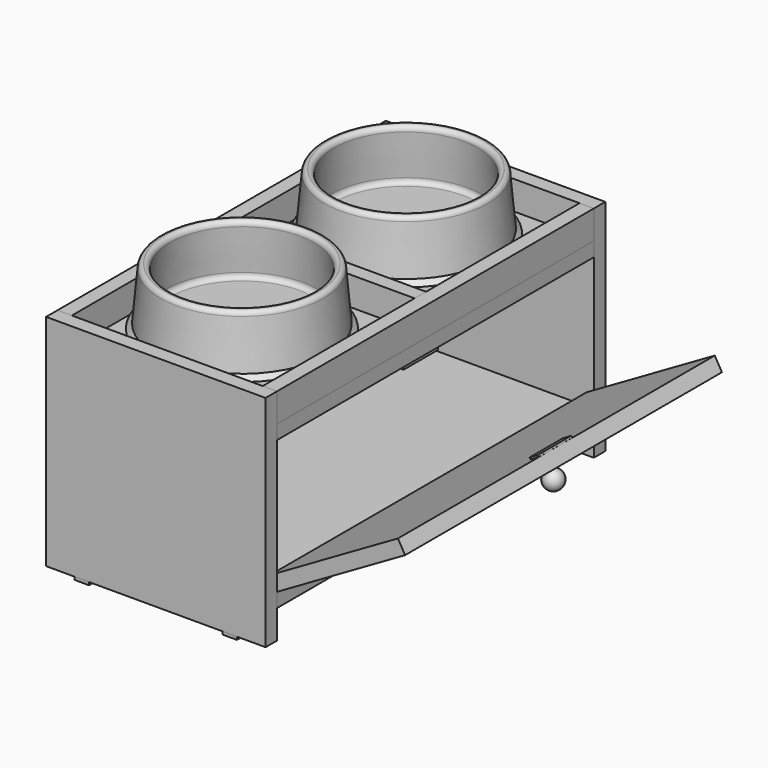
from build123d import *

# Parameters (mm, degrees)
BOX_W              = 230
BOX_H              = 15
BOX_DEPTH          = 230
BOX001_W           = 215
BOX001_H           = 415
BOX001_DEPTH       = 15
BOX002_W           = 230
BOX002_H           = 15
BOX002_DEPTH       = 230
BOX003_W           = 200
BOX003_H           = 15
BOX003_DEPTH       = 30
BOX005_W           = 15
BOX005_H           = 415
BOX005_DEPTH       = 30
BOX006_W           = 15
BOX006_H           = 415
BOX006_DEPTH       = 185
BOX007_W           = 230
BOX007_H           = 415
BOX007_DEPTH       = 15
BOX008_W           = 15
BOX008_H           = 415
BOX008_DEPTH       = 155
BOX008_PITCH_ANGLE = 60
BOX010_W           = 15
BOX010_H           = 45
BOX010_DEPTH       = 15
BOX011_W           = 2
BOX011_H           = 44
BOX011_DEPTH       = 10
BOX011_PITCH_ANGLE = 60
FILLET_R           = 4.9
FILLET002_R        = 4.9
FILLET001_R        = 4.9
FILLET003_R        = 4.9
BOX012_W           = 15
BOX012_H           = 15
BOX012_DEPTH       = 3
BOX013_W           = 15
BOX013_H           = 15
BOX013_DEPTH       = 3
BOX014_W           = 15
BOX014_H           = 15
BOX014_DEPTH       = 3
BOX015_W           = 15
BOX015_H           = 15
BOX015_DEPTH       = 3


with BuildPart() as obj1:
    # Box → Box (new body)
    with BuildSketch(Plane.XY):
        with Locations((115, 7.5)):
            Rectangle(BOX_W, BOX_H)
    extrude(amount=BOX_DEPTH)


with BuildPart() as tamposuperiorhorizontal:
    # Box001 → Box001 (new body)
    with BuildSketch(Plane(origin=(15, 15, 185), x_dir=(1, 0, 0), z_dir=(0, 0, 1))):
        with Locations((107.5, 207.5)):
            Rectangle(BOX001_W, BOX001_H)
    extrude(amount=BOX001_DEPTH)


with BuildPart() as obj2:
    # Box002 → Box002 (new body)
    with BuildSketch(Plane(origin=(0, 430, 0), x_dir=(1, 0, 0), z_dir=(0, 0, 1))):
        with Locations((115, 7.5)):
            Rectangle(BOX002_W, BOX002_H)
    extrude(amount=BOX002_DEPTH)


with BuildPart() as obj3:
    # Box003 → Box003 (new body)
    with BuildSketch(Plane(origin=(15, 214, 200), x_dir=(1, 0, 0), z_dir=(0, 0, 1))):
        with Locations((100, 7.5)):
            Rectangle(BOX003_W, BOX003_H)
    extrude(amount=BOX003_DEPTH)


with BuildPart() as obj4:
    # Box005 → Box005 (new body)
    with BuildSketch(Plane(origin=(215, 15, 200), x_dir=(1, 0, 0), z_dir=(0, 0, 1))):
        with Locations((7.5, 207.5)):
            Rectangle(BOX005_W, BOX005_H)
    extrude(amount=BOX005_DEPTH)


with BuildPart() as obj5:
    # Box006 → Box006 (new body)
    with BuildSketch(Plane(origin=(0, 15, 45), x_dir=(1, 0, 0), z_dir=(0, 0, 1))):
        with Locations((7.5, 207.5)):
            Rectangle(BOX006_W, BOX006_H)
    extrude(amount=BOX006_DEPTH)


with BuildPart() as tampoinferiorhorizontal:
    # Box007 → Box007 (new body)
    with BuildSketch(Plane(origin=(0, 15, 30), x_dir=(1, 0, 0), z_dir=(0, 0, 1))):
        with Locations((115, 207.5)):
            Rectangle(BOX007_W, BOX007_H)
    extrude(amount=BOX007_DEPTH)


with BuildPart() as tampabasculante:
    # Box008 → Box008 (new body)
    with BuildSketch(Plane.XY):
        with Locations((7.5, 207.5)):
            Rectangle(BOX008_W, BOX008_H)
    extrude(amount=BOX008_DEPTH)


with BuildPart() as tampabasculante_1:
    # Box008 pitch: moved
    add(tampabasculante.part.rotate(Axis((0, 0, 0), (0, 1, 0)), BOX008_PITCH_ANGLE))


with BuildPart() as tampabasculante_2:
    # Box008 placement: moved
    add(tampabasculante_1.part.moved(Location((222.5, 15, 58))))


with BuildPart() as obj6:
    # Box010 → Box010 (new body)
    with BuildSketch(Plane(origin=(200, 199.5, 170), x_dir=(1, 0, 0), z_dir=(0, 0, 1))):
        with Locations((7.5, 22.5)):
            Rectangle(BOX010_W, BOX010_H)
    extrude(amount=BOX010_DEPTH)


with BuildPart() as obj7:
    # Box011 → Box011 (new body)
    with BuildSketch(Plane.XY):
        with Locations((1, 22)):
            Rectangle(BOX011_W, BOX011_H)
    extrude(amount=BOX011_DEPTH)


with BuildPart() as obj7_1:
    # Box011 pitch: moved
    add(obj7.part.rotate(Axis((0, 0, 0), (0, 1, 0)), BOX011_PITCH_ANGLE))


with BuildPart() as obj7_2:
    # Box011 placement: moved
    add(obj7_1.part.moved(Location((347, 199.5, 132))))


with BuildPart() as puxador:
    # Sphere → Sphere (revolve)
    with BuildSketch(Plane(origin=(354, 222, 105), x_dir=(1, 0, 0), z_dir=(0, -1, 0))):
        with BuildLine():
            ThreePointArc((0, -10), (10, 0), (0, 10))
            Line((0, 10), (0, -10))
        make_face()
    revolve(axis=Axis((354, 222, 105), (0, 0, 1)))


with BuildPart() as cone002:
    # Cone002 → Cone002 (revolve)
    with BuildSketch(Plane(origin=(114, 114, 405), x_dir=(1, 0, 0), z_dir=(0, -1, 0))):
        Polygon((0, 0), (80, 0), (75, 55), (0, 55), align=None)
    revolve(axis=Axis((114, 114, 405), (0, 0, 1)))


with BuildPart() as fillet_body:
    # Cone001 → Cone001 (revolve)
    with BuildSketch(Plane(origin=(114, 114, 405), x_dir=(1, 0, 0), z_dir=(0, -1, 0))):
        Polygon((0, 0), (90, 0), (85, 55), (0, 55), align=None)
    revolve(axis=Axis((114, 114, 405), (0, 0, 1)))

    # Cut: cut Cone002
    add(cone002.part, mode=Mode.SUBTRACT)

    # Fillet
    fillet_edges = [fillet_body.edges().sort_by_distance(p)[0] for p in [
        (29, 114, 460),
        (39, 114, 460),
    ]]
    fillet(fillet_edges, radius=FILLET_R)


with BuildPart() as obj8:
    # Cone → Cone (revolve)
    with BuildSketch(Plane(origin=(114, 114, 400), x_dir=(1, 0, 0), z_dir=(0, -1, 0))):
        Polygon((0, 0), (95, 0), (90, 5), (0, 5), align=None)
    revolve(axis=Axis((114, 114, 400), (0, 0, 1)))

    # Fusion: union Fillet body
    add(fillet_body.part)


with BuildPart() as obj8_1:
    # Fusion placement: moved
    add(obj8.part.moved(Location((0, 0, -190))))

    # Fillet002
    fillet002_edges = [obj8_1.edges().sort_by_distance(p)[0] for p in [
        (34, 114, 215),
    ]]
    fillet(fillet002_edges, radius=FILLET002_R)


with BuildPart() as cone004:
    # Cone004 → Cone004 (revolve)
    with BuildSketch(Plane(origin=(114, 114, 405), x_dir=(1, 0, 0), z_dir=(0, -1, 0))):
        Polygon((0, 0), (80, 0), (75, 55), (0, 55), align=None)
    revolve(axis=Axis((114, 114, 405), (0, 0, 1)))


with BuildPart() as fillet001:
    # Cone005 → Cone005 (revolve)
    with BuildSketch(Plane(origin=(114, 114, 405), x_dir=(1, 0, 0), z_dir=(0, -1, 0))):
        Polygon((0, 0), (90, 0), (85, 55), (0, 55), align=None)
    revolve(axis=Axis((114, 114, 405), (0, 0, 1)))

    # Cut001: cut Cone004
    add(cone004.part, mode=Mode.SUBTRACT)

    # Fillet001
    fillet001_edges = [fillet001.edges().sort_by_distance(p)[0] for p in [
        (29, 114, 460),
        (39, 114, 460),
    ]]
    fillet(fillet001_edges, radius=FILLET001_R)


with BuildPart() as obj9:
    # Cone003 → Cone003 (revolve)
    with BuildSketch(Plane(origin=(114, 114, 400), x_dir=(1, 0, 0), z_dir=(0, -1, 0))):
        Polygon((0, 0), (95, 0), (90, 5), (0, 5), align=None)
    revolve(axis=Axis((114, 114, 400), (0, 0, 1)))

    # Fusion001: union Fillet001
    add(fillet001.part)


with BuildPart() as obj9_1:
    # Fusion001 placement: moved
    add(obj9.part.moved(Location((0, 215, -190))))

    # Fillet003
    fillet003_edges = [obj9_1.edges().sort_by_distance(p)[0] for p in [
        (34, 329, 215),
    ]]
    fillet(fillet003_edges, radius=FILLET003_R)


with BuildPart() as cube:
    # Box012 → Box012 (new body)
    with BuildSketch(Plane(origin=(30, 0, -3), x_dir=(1, 0, 0), z_dir=(0, 0, 1))):
        with Locations((7.5, 7.5)):
            Rectangle(BOX012_W, BOX012_H)
    extrude(amount=BOX012_DEPTH)


with BuildPart() as cube001:
    # Box013 → Box013 (new body)
    with BuildSketch(Plane(origin=(185, 0, -3), x_dir=(1, 0, 0), z_dir=(0, 0, 1))):
        with Locations((7.5, 7.5)):
            Rectangle(BOX013_W, BOX013_H)
    extrude(amount=BOX013_DEPTH)


with BuildPart() as cube002:
    # Box014 → Box014 (new body)
    with BuildSketch(Plane(origin=(30, 430, -3), x_dir=(1, 0, 0), z_dir=(0, 0, 1))):
        with Locations((7.5, 7.5)):
            Rectangle(BOX014_W, BOX014_H)
    extrude(amount=BOX014_DEPTH)


with BuildPart() as cube003:
    # Box015 → Box015 (new body)
    with BuildSketch(Plane(origin=(185, 430, -3), x_dir=(1, 0, 0), z_dir=(0, 0, 1))):
        with Locations((7.5, 7.5)):
            Rectangle(BOX015_W, BOX015_H)
    extrude(amount=BOX015_DEPTH)


solid = Compound([obj1.part, tamposuperiorhorizontal.part, obj2.part, obj3.part, obj4.part, obj5.part, tampoinferiorhorizontal.part, tampabasculante_2.part, obj6.part, obj7_2.part, puxador.part, obj8_1.part, obj9_1.part, cube.part, cube001.part, cube002.part, cube003.part])
